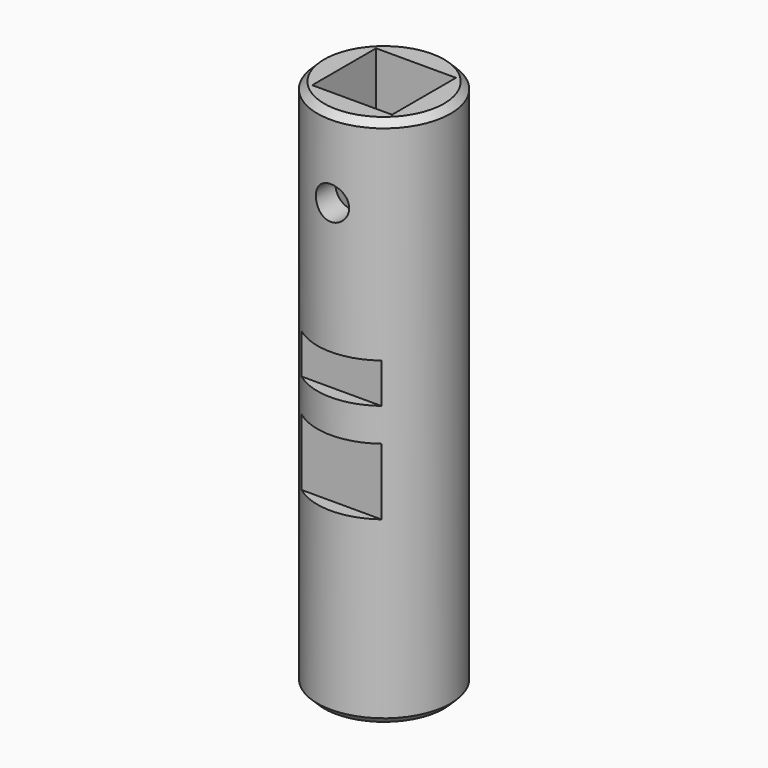
from build123d import *

# Parameters (mm, degrees)
F0_R     = 10
F1_DEPTH = 80
F2_W     = 12
F2_H     = 12
F3_DEPTH = 22
F6_D     = 5
F6_DEPTH = 12
F7_W     = 4
F7_H     = 6
F7_H_2   = 10
F8_DEPTH = 12.5
F9_SIZE  = 1


with BuildPart() as f1:
    # F0 (on Top) → F1 (new body)
    with BuildSketch(Plane.XY):
        Circle(F0_R)
    extrude(amount=F1_DEPTH)

    # F2 (on face) → F3 (cut)
    with BuildSketch(Plane.XY.offset(80)):
        Rectangle(F2_W, F2_H)
    extrude(amount=-F3_DEPTH, mode=Mode.SUBTRACT)

    # F6
    with Locations(Plane.XZ.offset(10)):
        with Locations((0, 68)):
            Hole(F6_D / 2, depth=F6_DEPTH)

    # F7 (on Right) → F8 (cut, symmetric)
    with BuildSketch(Plane.YZ):
        with Locations((-10, 45.3)):
            Rectangle(F7_W, F7_H)
        with Locations((-10, 32.3)):
            Rectangle(F7_W, F7_H_2)
    extrude(amount=F8_DEPTH, both=True, mode=Mode.SUBTRACT)

    # F9
    f9_edges = [f1.edges().sort_by_distance(p)[0] for p in [
        (-10, 0, 80),
        (-10, 0, 0),
    ]]
    chamfer(f9_edges, length=F9_SIZE)


solid = f1.part
